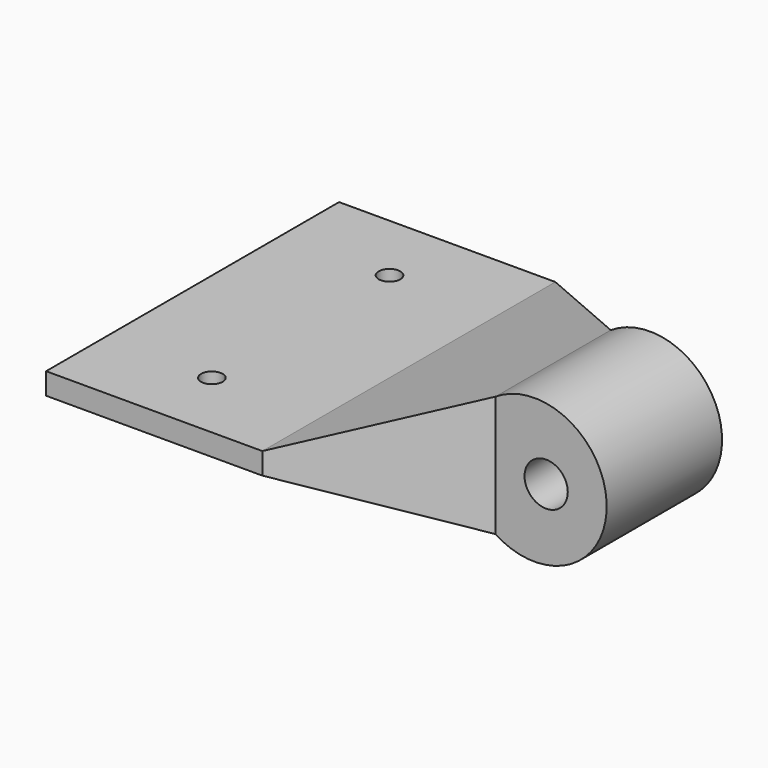
from build123d import *

# Parameters (mm, degrees)
F1_DEPTH   = 10
F3_D       = 6
F4_W       = 30
F4_H       = 1.5
F5_DEPTH   = 25.4
F1_FACE1_W = 20
F1_FACE1_H = 16.7741935484
F5_FACE_W  = 50.8
F5_FACE_H  = 3
F8_D       = 3


with BuildPart() as f1:
    # F0 (on Front) → F1 (new body, symmetric)
    with BuildSketch(Plane.XZ):
        with BuildLine():
            Line((-5.4457880697, 8.3870967742), (-5.4457880697, -8.3870967742))
            ThreePointArc((-5.4457880697, -8.3870967742), (10, 0), (-5.4457880697, 8.3870967742))
        make_face()
    extrude(amount=F1_DEPTH, both=True)

    # F3 (through all)
    with Locations(Plane(origin=(0, 10, 0), x_dir=(-1, 0, 0), z_dir=(0, 1, 0))):
        with Locations((-1.6, 0)):
            Hole(F3_D / 2)


with BuildPart() as f5:
    # F4 (on Front) → F5 (new body, symmetric)
    with BuildSketch(Plane.XZ):
        with Locations((-40.4457880697, -0.75)):
            Rectangle(F4_W, F4_H)
        with Locations((-40.4457880697, 0.75)):
            Rectangle(F4_W, F4_H)
    extrude(amount=F5_DEPTH, both=True)

    # F8 (through all)
    with Locations(Plane.XY.offset(1.5)):
        with Locations((-40.4457880697, 15.4), (-40.4457880697, -15.4)):
            Hole(F8_D / 2)


with BuildPart() as f6:
    # F1_face1 (on face) → F6 section 0
    with BuildSketch(Plane(origin=(-5.4457880697, 0, 0), x_dir=(0, -1, 0), z_dir=(-1, 0, 0))):
        Rectangle(F1_FACE1_W, F1_FACE1_H)
    # F5_face (on face) → F6 section 1
    with BuildSketch(Plane.YZ.offset(-25.4457880697)):
        Rectangle(F5_FACE_W, F5_FACE_H)
    loft()


solid = Compound([f1.part, f5.part, f6.part])
